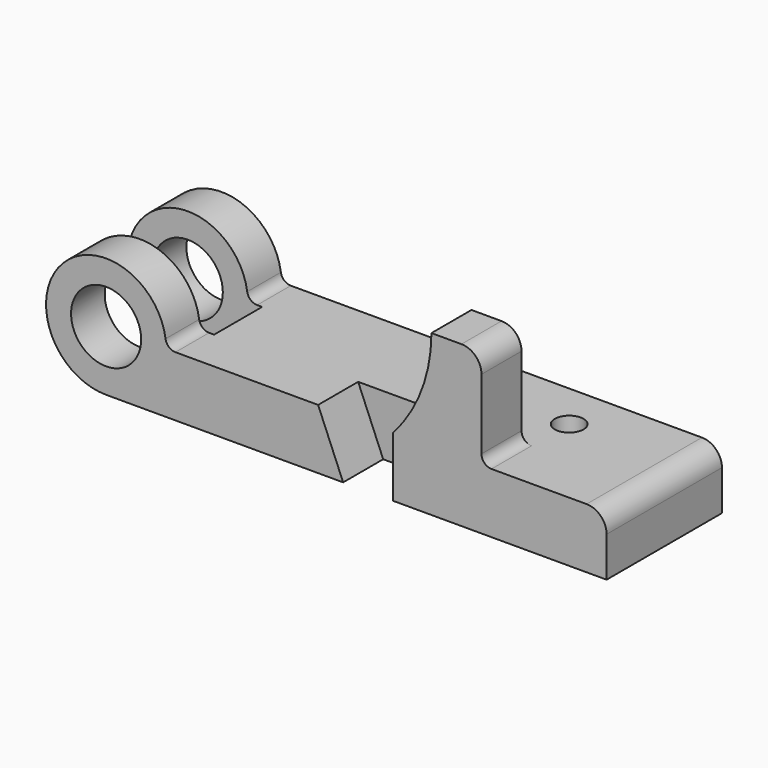
from build123d import *

# Parameters (mm, degrees)
F1_DEPTH = 731.52
F2_DEPTH = 254
F3_DEPTH = 254
F4_W     = 902.8388782728
F4_H     = 304.8
F5_DEPTH = 459.74
F4_R     = 72.9930452804
F6_DEPTH = 408.94
F7_DEPTH = 25.4


with BuildPart() as f1:
    # F0 (on Front) → F1 (new body)
    with BuildSketch(Plane.XZ):
        with BuildLine():
            ThreePointArc((0, -177.8), (-177.8, 0), (0, 177.8))
            Line((0, 177.8), (0, 304.8))
            ThreePointArc((0, 304.8), (-304.8, 0), (0, -304.8))
            Line((0, -304.8), (0, -177.8))
        make_face()
        Polygon((1075.944, 0), (1202.944, -304.8), (1456.944, -304.8), (1456.944, 0), align=None)
        with BuildLine():
            Line((1456.944, 0), (1456.944, -304.8))
            Line((1456.944, -304.8), (2540, -304.8))
            Line((2540, -304.8), (2540, -101.6))
            ThreePointArc((2540, -101.6), (2510.2420489686, -29.7579510314), (2438.4, 0))
            Line((2438.4, 0), (1955.8, 0))
            Line((1955.8, 0), (1456.944, 0))
        make_face()
        with BuildLine():
            ThreePointArc((0, 177.8), (125.723585695, 125.723585695), (177.8, 0))
            ThreePointArc((177.8, 0), (125.723585695, -125.723585695), (0, -177.8))
            Line((0, -177.8), (0, -304.8))
            Line((0, -304.8), (1202.944, -304.8))
            Line((1202.944, -304.8), (1075.944, 0))
            Line((1075.944, 0), (351.952724098, 0))
            ThreePointArc((351.952724098, 0), (318.696317626, 12.3988095423), (301.6737635126, 43.5428571429))
            ThreePointArc((301.6737635126, 43.5428571429), (199.5384388318, 230.4071427464), (0, 304.8))
            Line((0, 304.8), (0, 177.8))
        make_face()
    extrude(amount=-F1_DEPTH)

    # F0 (on Front) → F2 (cut)
    with BuildSketch(Plane.XZ):
        Polygon((1075.944, 0), (1202.944, -304.8), (1456.944, -304.8), (1456.944, 0), align=None)
    extrude(amount=-F2_DEPTH, mode=Mode.SUBTRACT)

    # F0 (on Front) → F3 (join)
    with BuildSketch(Plane.XZ):
        with BuildLine():
            ThreePointArc((1651, 508), (1600.8312727093, 236.0997578251), (1456.944, 0))
            Line((1456.944, 0), (1955.8, 0))
            ThreePointArc((1955.8, 0), (1919.8789755157, 14.8789755157), (1905, 50.8))
            Line((1905, 50.8), (1905, 406.4))
            ThreePointArc((1905, 406.4), (1875.2420489686, 478.2420489686), (1803.4, 508))
            Line((1803.4, 508), (1651, 508))
        make_face()
    extrude(amount=-F3_DEPTH)

    # F4 (on face) → F5 (cut, symmetric)
    with BuildSketch(Plane.XY):
        with Locations((-99.4667150384, 365.76)):
            Rectangle(F4_W, F4_H)
    extrude(amount=F5_DEPTH, both=True, mode=Mode.SUBTRACT)

    # F4 (on face) → F6 (cut)
    with BuildSketch(Plane.XY):
        with Locations((1955.8, 492.76)):
            Circle(F4_R)
    extrude(amount=-F6_DEPTH, mode=Mode.SUBTRACT)

    # F7 (cut): a face of the model
    f7_faces = [f1.faces().sort_by_distance(p)[0] for p in [
        (351.952724098, 365.76, -152.4),
    ]]
    extrude(f7_faces, amount=-F7_DEPTH, mode=Mode.SUBTRACT)


solid = f1.part
